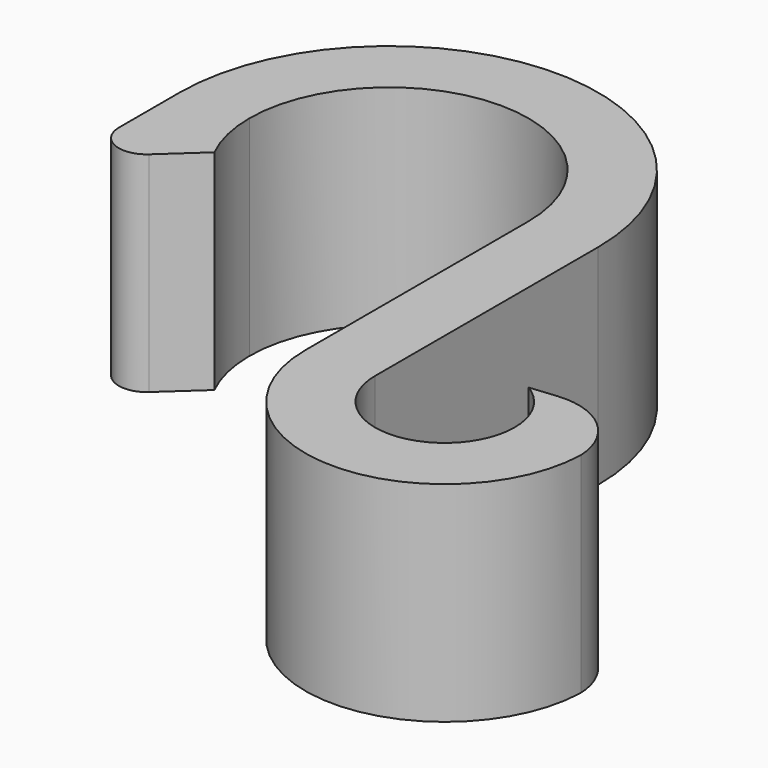
from build123d import *

# Parameters (mm, degrees)
F0_W     = 6.35
F0_H     = 25.4
F1_DEPTH = 19.05
F2_R     = 2.54


with BuildPart() as f1:
    # F0 (on Top) → F1 (new body)
    with BuildSketch(Plane.XY):
        with BuildLine():
            ThreePointArc((-50.8, 9.50515), (-38.1, 22.20515), (-25.4, 9.50515))
            Line((-25.4, 9.50515), (-19.05, 9.50515))
            ThreePointArc((-19.05, 9.50515), (-38.1, 28.55515), (-57.15, 9.50515))
            Line((-57.15, 9.50515), (-57.15, -3.19485))
            Line((-57.15, -3.19485), (-49.473359, 3.853894))
            ThreePointArc((-49.473359, 3.853894), (-50.463892, 6.602709), (-50.8, 9.50515))
        make_face()
        with Locations((-22.225, -3.19485)):
            Rectangle(F0_W, F0_H)
        with BuildLine():
            Line((-19.05, -15.89485), (-25.4, -15.89485))
            ThreePointArc((-25.4, -15.89485), (-12.88999, -28.593429), (-0.005684, -16.274787))
            ThreePointArc((-0.005684, -16.274787), (-2.183514, -11.751451), (-6.965598, -10.223322))
            Line((-6.965598, -10.223322), (-9.413118, -10.461719))
            ThreePointArc((-9.413118, -10.461719), (-7.168536, -12.776292), (-6.35, -15.89485))
            ThreePointArc((-6.35, -15.89485), (-12.7, -22.24485), (-19.05, -15.89485))
        make_face()
    extrude(amount=F1_DEPTH)

    # F2
    f2_edges = [f1.edges().sort_by_distance(p)[0] for p in [
        (-57.15, -3.19485, 9.525),
    ]]
    fillet(f2_edges, radius=F2_R)


solid = f1.part
